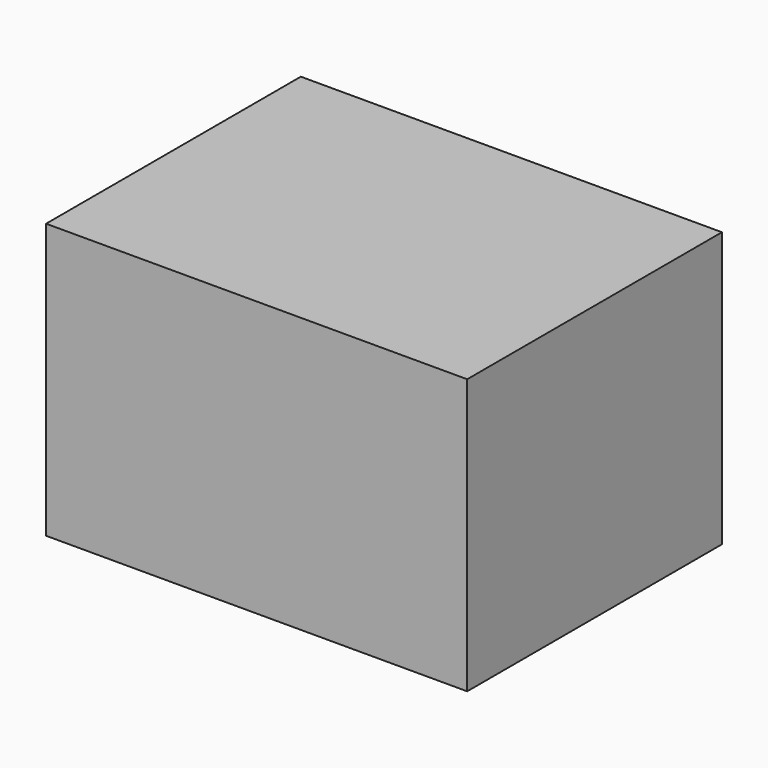
from build123d import *

# Parameters (mm, degrees)
F0_W     = 16.4
F0_H     = 12.4
F1_DEPTH = 10.7
F2_T     = -1
F3_W     = 5.4
F3_H     = 3.1
F4_DEPTH = 15.4
F5_SIZE  = 2


with BuildPart() as f1:
    # F0 (on Top) → F1 (new body)
    with BuildSketch(Plane.XY):
        with Locations((8.2, 6.2)):
            Rectangle(F0_W, F0_H)
    extrude(amount=F1_DEPTH)

    # F2
    f2_openings = [f1.faces().sort_by_distance(p)[0] for p in [
        (0, 6.2, 5.35),
    ]]
    offset(amount=F2_T, openings=f2_openings)

    # F3 (on face) → F4 (join, through all)
    with BuildSketch(Plane(origin=(0, 0, 0), x_dir=(0, -1, 0), z_dir=(-1, 0, 0))):
        with Locations((-6.2, 5.35)):
            Rectangle(F3_W, F3_H)
    extrude(amount=-F4_DEPTH)

    # F5
    f5_edges = [f1.edges().sort_by_distance(p)[0] for p in [
        (7.7, 11.4, 9.7),
        (7.7, 1, 9.7),
    ]]
    chamfer(f5_edges, length=F5_SIZE)


solid = f1.part
